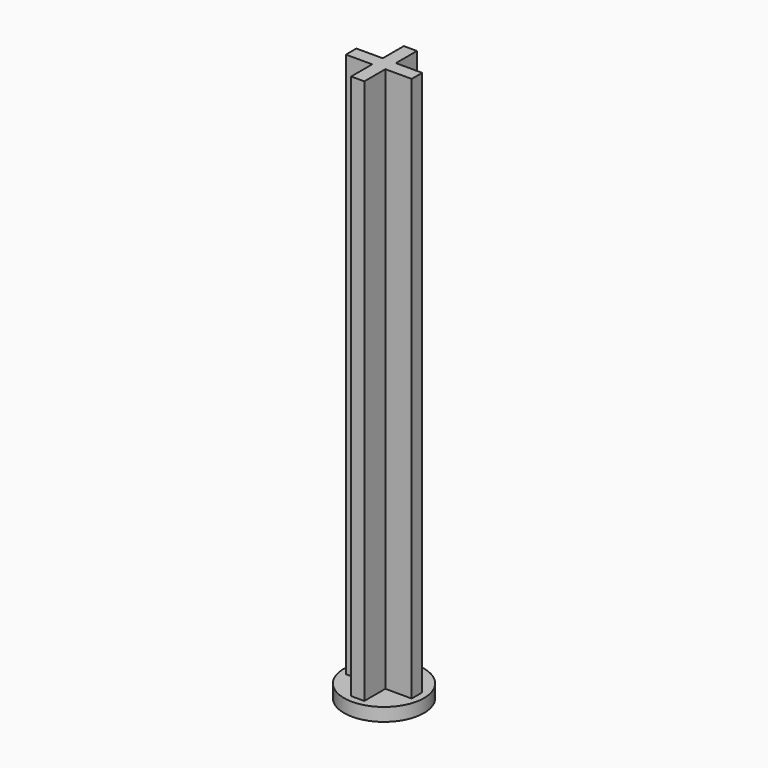
from build123d import *

# Parameters (mm, degrees)
F1_DEPTH = 73.66
F2_R     = 5.3975
F3_DEPTH = 1.778


with BuildPart() as f1:
    # F0 (on Top) → F1 (new body)
    with BuildSketch(Plane.XY):
        Polygon((0.889, 4.445), (-0.889, 4.445), (-0.889, 0.889), (-4.445, 0.889), (-4.445, -0.889), (-0.889, -0.889), (-0.889, -4.445), (0.889, -4.445), (0.889, -0.889), (4.445, -0.889), (4.445, 0.889), (0.889, 0.889), align=None)
    extrude(amount=F1_DEPTH)

    # F2 (on Top) → F3 (join)
    with BuildSketch(Plane.XY):
        Circle(F2_R)
    extrude(amount=-F3_DEPTH)


solid = f1.part
